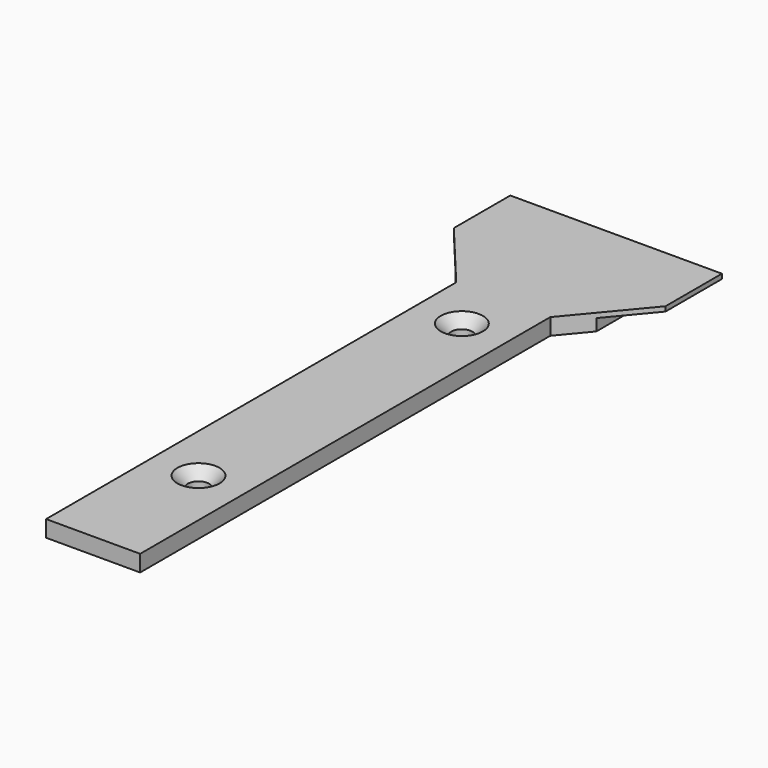
from build123d import *

# Parameters (mm, degrees)
F1_DEPTH       = 3.5
F3_DEPTH       = 2.5
F5_D           = 4.5
F5_CSINK_D     = 8.96
F5_CSINK_ANGLE = 90


with BuildPart() as f1:
    # F0 (on Top) → F1 (new body)
    with BuildSketch(Plane.XY):
        Polygon((0, 109), (0, 0), (20, 0), (20, 109), (32.5, 124), (32.5, 139), (-12.5, 139), (-12.5, 124), align=None)
        Polygon((0, 109), (0, 0), (20, 0), (20, 109), (32.5, 124), (32.5, 139), (-12.5, 139), (-12.5, 124), align=None)
    extrude(amount=F1_DEPTH)

    # F2 (on face) → F3 (cut)
    with BuildSketch(Plane(origin=(0, 0, 0), x_dir=(1, 0, 0), z_dir=(0, 0, -1))):
        Polygon((-12.5, -124), (-12.5, -139), (-5, -139), (-5, -115), align=None)
        Polygon((25, -139), (32.5, -139), (32.5, -124), (25, -115), align=None)
    extrude(amount=-F3_DEPTH, mode=Mode.SUBTRACT)

    # F5 (through all)
    with Locations(Plane.XY.offset(3.5)):
        with Locations((10, 98), (10, 28)):
            CounterSinkHole(F5_D / 2, F5_CSINK_D / 2, counter_sink_angle=F5_CSINK_ANGLE)


solid = f1.part
